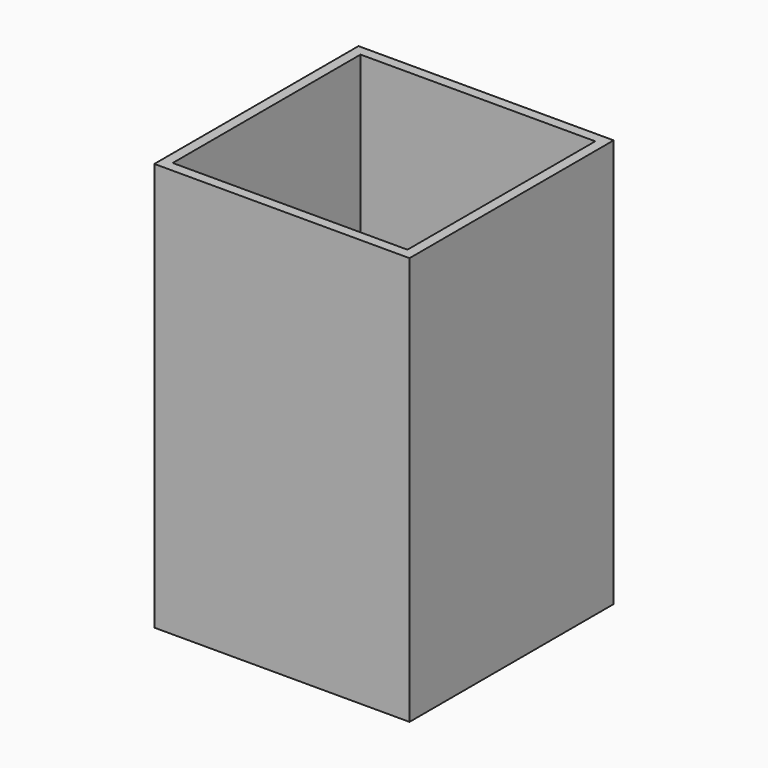
from build123d import *

# Parameters (mm, degrees)
BOX001_W     = 46
BOX001_H     = 46
BOX001_DEPTH = 80
BOX_W        = 50
BOX_H        = 50
BOX_DEPTH    = 80


with BuildPart() as cubo2:
    # Box001 → Box001 (new body)
    with BuildSketch(Plane(origin=(2, 2, 2), x_dir=(1, 0, 0), z_dir=(0, 0, 1))):
        with Locations((23, 23)):
            Rectangle(BOX001_W, BOX001_H)
    extrude(amount=BOX001_DEPTH)


with BuildPart() as cut:
    # Box → Box (new body)
    with BuildSketch(Plane.XY):
        with Locations((25, 25)):
            Rectangle(BOX_W, BOX_H)
    extrude(amount=BOX_DEPTH)

    # Cut: cut CUBO2
    add(cubo2.part, mode=Mode.SUBTRACT)


solid = cut.part
